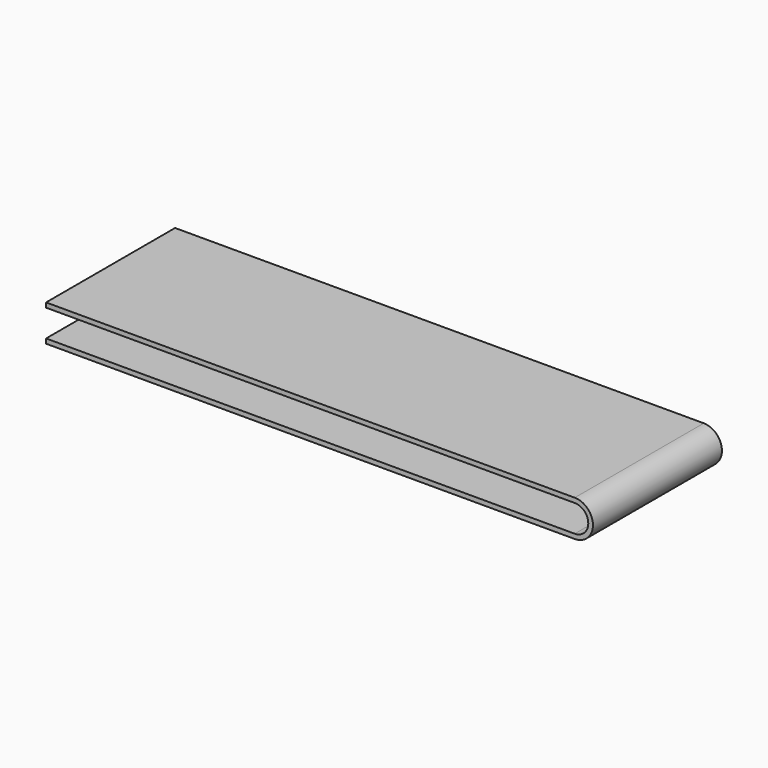
from build123d import *

# Parameters (mm, degrees)
F0_W     = 500
F0_H     = 8.8
F1_DEPTH = 305


with BuildPart() as f1:
    # F0 (on Front) → F1 (new body)
    with BuildSketch(Plane.XZ):
        with Locations((218.200997, 78.256204)):
            Rectangle(F0_W, F0_H)
        with BuildLine():
            Line((468.200997, 82.656204), (468.200997, 73.856204))
            Line((468.200997, 73.856204), (968.200997, 73.856204))
            ThreePointArc((968.200997, 73.856204), (993.800997, 48.256204), (968.200997, 22.656204))
            Line((968.200997, 22.656204), (834.545441, 22.656204))
            Line((834.545441, 22.656204), (101.856552, 22.656204))
            Line((101.856552, 22.656204), (-31.799003, 22.656204))
            Line((-31.799003, 22.656204), (-31.799003, 13.856204))
            Line((-31.799003, 13.856204), (468.200997, 13.856204))
            Line((468.200997, 13.856204), (968.200997, 13.856204))
            ThreePointArc((968.200997, 13.856204), (1002.600997, 48.256204), (968.200997, 82.656204))
            Line((968.200997, 82.656204), (468.200997, 82.656204))
        make_face()
    extrude(amount=F1_DEPTH)


solid = f1.part
